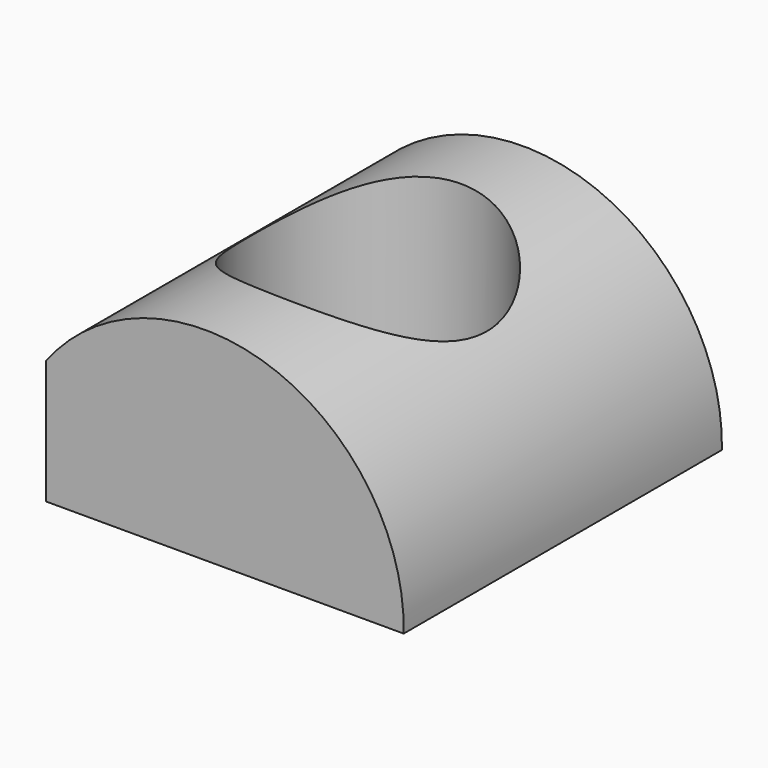
from build123d import *

# Parameters (mm, degrees)
F1_DEPTH = 42.8752
F2_R     = 12.8093778024
F3_DEPTH = 25.4
F4_W     = 4.3257835782
F4_H     = 42.8752
F5_DEPTH = 25.4
F6_W     = 42.8752
F6_H     = 0.8536929434
F7_DEPTH = 25.4


with BuildPart() as f1:
    # F0 (on Front) → F1 (new body)
    with BuildSketch(Plane.XZ):
        with BuildLine():
            ThreePointArc((21.01098439, 0), (-0.42661561, 21.8686955447), (-21.86421561, 0))
            Line((-21.86421561, 0), (21.01098439, 0))
        make_face()
    extrude(amount=F1_DEPTH)

    # F2 (on face) → F3 (cut)
    with BuildSketch(Plane(origin=(0, 0, 0), x_dir=(1, 0, 0), z_dir=(0, 0, -1))):
        with Locations((0, 21.4376)):
            Circle(F2_R)
    extrude(amount=-F3_DEPTH, mode=Mode.SUBTRACT)

    # F4 (on face) → F5 (cut)
    with BuildSketch(Plane(origin=(0, 0, 0), x_dir=(1, 0, 0), z_dir=(0, 0, -1))):
        with Locations((-19.7013238209, 21.4376)):
            Rectangle(F4_W, F4_H)
    extrude(amount=-F5_DEPTH, mode=Mode.SUBTRACT)

    # F6 (on face) → F7 (cut)
    with BuildSketch(Plane.YZ.offset(-21.86421561)):
        with Locations((-21.4376, 0.4268464717)):
            Rectangle(F6_W, F6_H)
    extrude(amount=-F7_DEPTH, mode=Mode.SUBTRACT)


solid = f1.part
